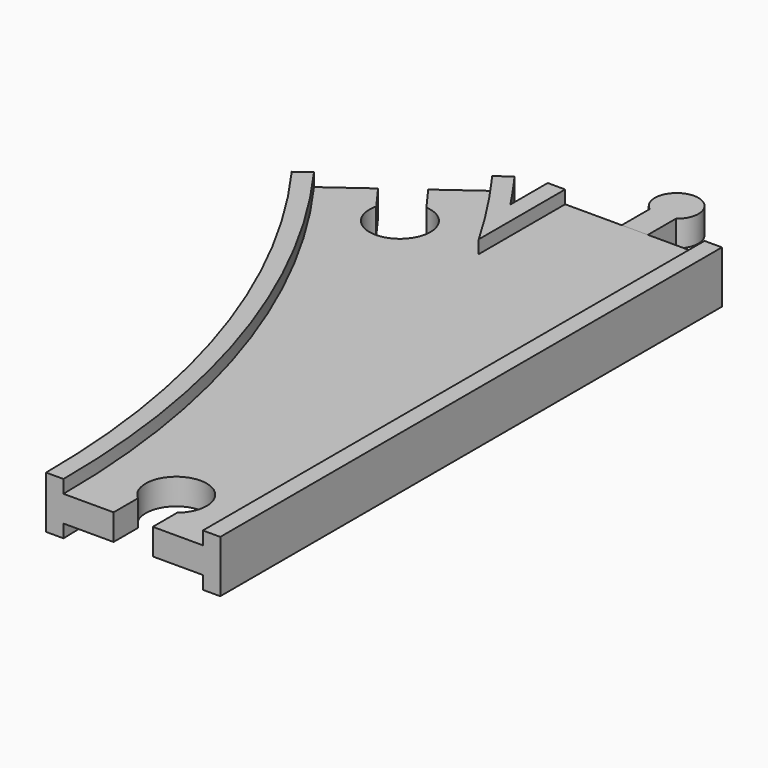
from build123d import *

# Parameters (mm, degrees)
SKETCH013_W          = 32
SKETCH013_H          = 3
POCKET_DEPTH         = 6.001
POCKET_DEPTH_BACK    = -6.001
POCKET001_DEPTH      = 6.001
POCKET001_DEPTH_BACK = -6.001
PAD001_DEPTH         = 3


with BuildPart() as body:
    # AdditivePipe: sweep along a path in Sketch002
    with BuildLine(Plane.XY) as additivepipe_path:
        ThreePointArc((0, 0), (-10.865453, 68.601773), (-42.398227, 130.488326))
    # Sketch → AdditivePipe (sweep)
    with BuildSketch(Plane.XZ):
        Polygon((-20, 6), (-20, -6), (-16, -6), (-16, -3), (-9, -3), (9, -3), (16, -3), (16, -6), (20, -6), (20, 6), (16, 6), (16, 3), (9, 3), (-9, 3), (-16, 3), (-16, 6), align=None)
    sweep(path=additivepipe_path.line)

    # AdditivePipe001: sweep along a path in Sketch001
    with BuildLine(Plane.XY) as additivepipe001_path:
        Line((0, 0), (0, 144))
    # Sketch → AdditivePipe001 (sweep)
    with BuildSketch(Plane.XZ):
        Polygon((-20, 6), (-20, -6), (-16, -6), (-16, -3), (-9, -3), (9, -3), (16, -3), (16, -6), (20, -6), (20, 6), (16, 6), (16, 3), (9, 3), (-9, 3), (-16, 3), (-16, 6), align=None)
    sweep(path=additivepipe001_path.line)

    # SubtractivePipe: sweep along a path in Sketch002
    with BuildLine(Plane.XY) as subtractivepipe_path:
        ThreePointArc((0, 0), (-10.865453, 68.601773), (-42.398227, 130.488326))
    # Sketch013 (on Face1 of AdditivePipe001) → SubtractivePipe (sweep, cut)
    with BuildSketch(Plane.XZ):
        with Locations((0, 4.5)):
            Rectangle(SKETCH013_W, SKETCH013_H)
    subtractivepipe = sweep(path=subtractivepipe_path.line, mode=Mode.SUBTRACT)

    # SubtractivePipe001: sweep along a path in Sketch001
    with BuildLine(Plane.XY) as subtractivepipe001_path:
        Line((0, 0), (0, 144))
    # Sketch013 (on Face1 of AdditivePipe001) → SubtractivePipe001 (sweep, cut)
    with BuildSketch(Plane.XZ):
        with Locations((0, 4.5)):
            Rectangle(SKETCH013_W, SKETCH013_H)
    subtractivepipe001 = sweep(path=subtractivepipe001_path.line, mode=Mode.SUBTRACT)

    # Mirrored: SubtractivePipe across XY
    add(subtractivepipe.mirror(Plane.XY), mode=Mode.SUBTRACT)

    # Mirrored001: SubtractivePipe001 across XY
    add(subtractivepipe001.mirror(Plane.XY), mode=Mode.SUBTRACT)

    # Sketch014 → Pocket (cut, two sides)
    with BuildSketch(Plane.XY) as pocket_sk:
        with BuildLine():
            Line((-4.5, 0), (4.5, 0))
            Line((4.5, 0), (4.5, 7))
            ThreePointArc((4.5, 7), (0, 19.361903), (-4.5, 7))
            Line((-4.5, 0), (-4.5, 7))
        make_face()
    extrude(amount=-POCKET_DEPTH, mode=Mode.SUBTRACT)
    extrude(pocket_sk.sketch, amount=-POCKET_DEPTH_BACK, mode=Mode.SUBTRACT)

    # Sketch015 → Pocket001 (cut, two sides)
    with BuildSketch(Plane.XY) as pocket001_sk:
        with BuildLine():
            Line((-46.038804, 127.843292), (-38.757651, 133.13336))
            Line((-38.757651, 133.13336), (-34.643154, 127.470241))
            ThreePointArc((-41.924307, 122.180173), (-31.017586, 114.824218), (-34.643154, 127.470241))
            Line((-46.038804, 127.843292), (-41.924307, 122.180173))
        make_face()
    extrude(amount=-POCKET001_DEPTH, mode=Mode.SUBTRACT)
    extrude(pocket001_sk.sketch, amount=-POCKET001_DEPTH_BACK, mode=Mode.SUBTRACT)


with BuildPart() as body002:
    # Sketch011 → Pad001 (new body, symmetric)
    with BuildSketch(Plane.XY):
        with BuildLine():
            Line((-3, 144), (3, 144))
            Line((3, 144), (3, 152))
            ThreePointArc((3, 152), (0, 161), (-3, 152))
            Line((-3, 144), (-3, 152))
        make_face()
    extrude(amount=PAD001_DEPTH, both=True)


solid = Compound([body.part, body002.part])
